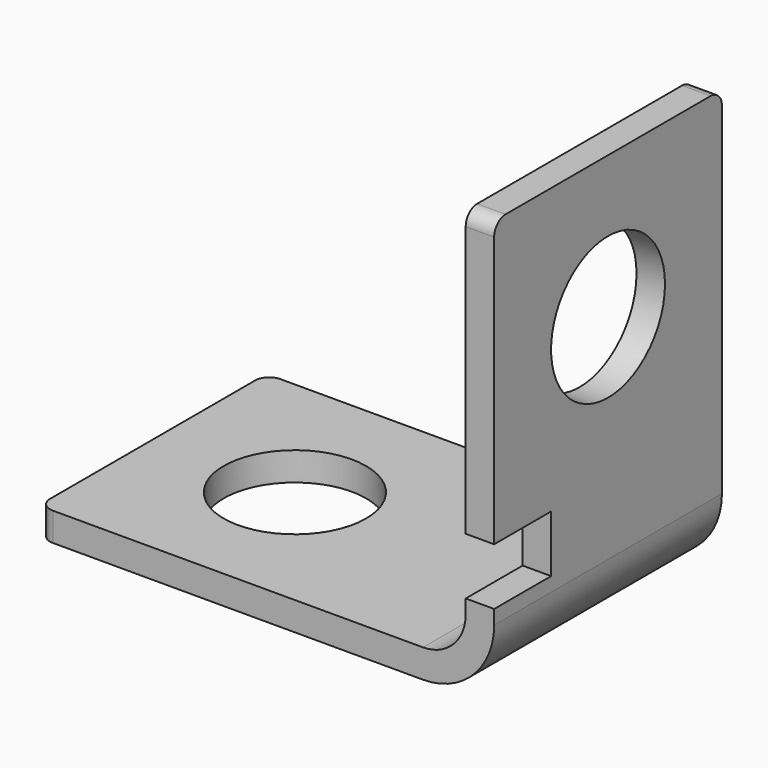
from build123d import *

# Parameters (mm, degrees)
F1_DEPTH = 20
F3_DEPTH = 3
F4_R     = 5
F5_DEPTH = 3
F6_R     = 5
F7_DEPTH = 3
F8_R     = 1


with BuildPart() as f1:
    # F0 (on Front) → F1 (new body)
    with BuildSketch(Plane.XZ):
        with BuildLine():
            Line((-29.355609, -32.139022), (-56.355609, -32.139022))
            Line((-56.355609, -32.139022), (-56.355609, -34.139022))
            Line((-56.355609, -34.139022), (-29.355609, -34.139022))
            ThreePointArc((-29.355609, -34.139022), (-25.820076, -32.674556), (-24.355609, -29.139022))
            Line((-24.355609, -29.139022), (-24.355609, -4.139022))
            Line((-24.355609, -4.139022), (-26.355609, -4.139022))
            Line((-26.355609, -4.139022), (-26.355609, -29.139022))
            ThreePointArc((-26.355609, -29.139022), (-27.234289, -31.260342), (-29.355609, -32.139022))
        make_face()
    extrude(amount=F1_DEPTH)

    # F2 (on face) → F3 (cut)
    with BuildSketch(Plane.YZ.offset(-24.355609)):
        Polygon((-17.18655, -24.139022), (-20, -24.139022), (-20, -28.139022), (-15, -28.139022), (-15, -24.139022), align=None)
    extrude(amount=-F3_DEPTH, mode=Mode.SUBTRACT)

    # F4 (on face) → F5 (cut)
    with BuildSketch(Plane.YZ.offset(-24.355609)):
        with Locations((-10, -14.139022)):
            Circle(F4_R)
    extrude(amount=-F5_DEPTH, mode=Mode.SUBTRACT)

    # F6 (on face) → F7 (cut)
    with BuildSketch(Plane(origin=(0, 0, -34.139022), x_dir=(1, 0, 0), z_dir=(0, 0, -1))):
        with Locations((-46.355609, 10)):
            Circle(F6_R)
    extrude(amount=-F7_DEPTH, mode=Mode.SUBTRACT)

    # F8
    f8_edges = [f1.edges().sort_by_distance(p)[0] for p in [
        (-25.355609, -20, -4.139022),
        (-25.355609, 0, -4.139022),
        (-56.355609, -20, -33.139022),
        (-56.355609, 0, -33.139022),
    ]]
    fillet(f8_edges, radius=F8_R)


solid = f1.part
